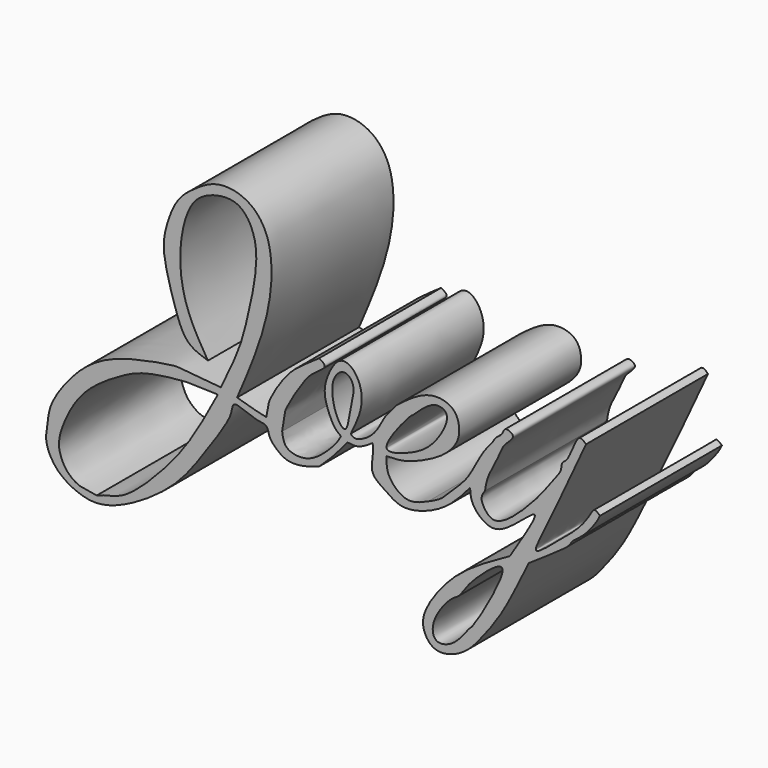
from build123d import *

# Parameters (mm, degrees)
F1_DEPTH = 25.4


with BuildPart() as f1:
    # F0 (on Front) → F1 (new body)
    with BuildSketch(Plane.XZ):
        with BuildLine():
            add(Edge.make_bspline(
                [(-17.9615113884, 22.5785691291), (-16.8785323099, 24.8283530558), (-14.8875163416, 28.9644954911), (-13.6529785181, 33.6098762388), (-11.8527273233, 41.5510196504), (-12.1077557838, 46.9327315687), (-14.9854313367, 51.3142979329), (-20.5866470233, 50.2918927929), (-23.5282370605, 47.4825058309), (-25.1627910693, 40.5038601474), (-24.1811394128, 32.5204253814), (-21.4672711456, 28.0255682144), (-20.120959729, 25.7957335562)],
                knots=[0, 0, 0, 0, 0.1079526526, 0.1984668582, 0.3137135116, 0.4090111108, 0.4944424419, 0.584479265, 0.6644981268, 0.7709558356, 0.8863744504, 1, 1, 1, 1], degree=3))
            add(Edge.make_bspline(
                [(-17.9615113884, 22.5785691291), (-20.7979269335, 22.8364178702), (-24.8208207618, 23.2021252543), (-25.9209646683, 23.2950329977), (-34.3716638699, 21.8353807402), (-39.4277787412, 19.3130619937), (-42.9937640583, 16.0388345285), (-46.7346829888, 10.8992924606), (-46.76549209, 7.4704291376), (-47.3811038047, 5.4098079055), (-45.718251537, 1.4211520754), (-41.6082922731, -0.862408187), (-37.8773460761, -1.4191528922), (-32.2369111303, 0.7337542847), (-24.6838615717, 6.1029919131), (-20.3138712178, 12.791475342), (-15.9279482721, 18.8630046719), (-16.1473717027, 21.6284869116), (-12.164200646, 19.4819936691), (-10.1802501736, 19.7599291983), (-9.9398563526, 17.8056032059), (-8.9988829421, 16.8025889347), (-7.1625813707, 15.1979889972), (-4.1175833659, 15.4080866641), (-2.4154447168, 16.0079938742), (-1.5792717459, 16.3026973605)],
                knots=[0, 0, 0, 0, 0.0571604273, 0.0810707482, 0.1431673574, 0.196825202, 0.2446514939, 0.2990998209, 0.3383517354, 0.3693361924, 0.412823318, 0.4595247079, 0.5007261801, 0.5533370351, 0.6194803707, 0.6832451063, 0.7422240262, 0.769720546, 0.8114430366, 0.8409824467, 0.8679412058, 0.8937555208, 0.9266971889, 0.9639901078, 1, 1, 1, 1], degree=3))
            add(Edge.make_bspline(
                [(-1.5792717459, 16.3026973605), (-0.913846574, 16.9199791597), (0.5470685948, 18.27519742), (2.2100052378, 20.2780144639), (3.1154989265, 21.3685780764)],
                knots=[0, 0, 0, 0, 0.4554851549, 1, 1, 1, 1], degree=3))
            add(Edge.make_bspline(
                [(3.1154989265, 21.3685780764), (3.7126878421, 21.2900057557), (5.0386948811, 21.1155426208), (6.5203878624, 22.1032210069), (7.3347762227, 22.6460823091)],
                knots=[0, 0, 0, 0, 0.4503663238, 1, 1, 1, 1], degree=3))
            add(Edge.make_bspline(
                [(7.3347762227, 22.6460823091), (7.3692013264, 22.0581225743), (7.4433401868, 20.7918761437), (6.8021223453, 18.0116565123), (8.5901209411, 16.8884442041), (9.5225488767, 16.3026973605)],
                knots=[0, 0, 0, 0, 0.2931788002, 0.6313980147, 1, 1, 1, 1], degree=3))
            add(Edge.make_bspline(
                [(9.5225488767, 16.3026973605), (10.3153046395, 15.7371406791), (12.0399771232, 14.5067490602), (16.2552353734, 15.3481781614), (20.3503110078, 17.6181086577), (22.4807026533, 20.1087717478), (23.5582794994, 21.3685780764)],
                knots=[0, 0, 0, 0, 0.2104982629, 0.4579475532, 0.7258235746, 1, 1, 1, 1], degree=3))
            add(Edge.make_bspline(
                [(23.5582794994, 21.3685780764), (23.6058177675, 20.5991928089), (23.7087464097, 18.933339505), (26.4224053914, 16.3935568171), (29.5683212268, 16.7653476082), (36.7499440399, 23.8975693388), (32.5084123063, 17.1728111255), (30.1864612848, 13.4914619848)],
                knots=[0, 0, 0, 0, 0.1468627944, 0.3179835665, 0.4909649516, 0.7213378268, 1, 1, 1, 1], degree=3))
            add(Edge.make_bspline(
                [(30.1864612848, 13.4914619848), (28.2281859881, 12.4047762183), (24.359431753, 10.2579278315), (19.5652417481, 6.5240716361), (15.6089189819, 0.8547997697), (15.6317840285, -2.1809546248), (17.6542722226, -4.9971944849), (22.6899250217, -3.6130583964), (26.1417500487, 0.8207725876), (29.1458373537, 4.8903464517), (31.7982731886, 10.3330236723), (33.3375073969, 13.4914619848)],
                knots=[0, 0, 0, 0, 0.123517731, 0.2440207185, 0.3675980917, 0.4479315713, 0.5278251165, 0.6295956243, 0.7425420272, 0.8505946445, 1, 1, 1, 1], degree=3))
            add(Edge.make_bspline(
                [(33.3375073969, 13.4914619848), (33.919882448, 13.8983363923), (35.3532959578, 14.8997860105), (40.1509053178, 17.9925096677), (40.4952008459, 19.1543329618), (42.411659326, 20.2393501731), (44.643818166, 23.1101767007), (45.0424248374, 23.9615966109), (45.1886281371, 24.273885414)],
                knots=[0, 0, 0, 0, 0.1695940509, 0.4174258553, 0.5287737429, 0.6806679251, 0.8828735031, 1, 1, 1, 1], degree=3))
            add(Edge.make_bspline(
                [(45.1886281371, 24.273885414), (44.8667141174, 24.5705585525), (44.2128239262, 25.1731780203), (43.5281596898, 23.7695626009), (41.8783132813, 21.4331294474), (39.0362061175, 19.0192899036), (36.8442594881, 17.1707807643), (33.7825829746, 14.7842334012), (35.7431769648, 18.8333263193), (37.8784541149, 23.3263467912), (40.6525082758, 29.0825463573), (42.1511863372, 32.4159856595), (42.8699366748, 34.0146683156)],
                knots=[0, 0, 0, 0, 0.0573073121, 0.1164058941, 0.2123824054, 0.3197124954, 0.4215666562, 0.5060014251, 0.5975336027, 0.7298339801, 0.8704312, 1, 1, 1, 1], degree=3))
            add(Edge.make_bspline(
                [(42.8699366748, 34.0146683156), (42.4842507703, 34.3852339771), (41.3945076189, 35.4322553667), (40.0503084723, 30.5060562056), (38.7294343375, 30.1817479967), (38.8723117283, 28.8003334771), (37.49050637, 27.1613363836), (35.4048057224, 24.156523269), (32.3977584702, 20.9257830442), (29.6956531395, 18.5505783498), (27.6140273069, 17.6699740484), (26.320672442, 18.4246453451), (25.1056777253, 20.3847945843), (25.74962933, 21.3012230998), (26.0449219495, 21.7214636505)],
                knots=[0, 0, 0, 0, 0.0626644564, 0.1770564113, 0.2376931564, 0.2952624947, 0.3749868594, 0.4826995825, 0.6017764862, 0.708508773, 0.7873725434, 0.8522990153, 0.9322697383, 1, 1, 1, 1], degree=3))
            add(Edge.make_bspline(
                [(26.0449219495, 21.7214636505), (26.1425852473, 22.4169885406), (26.3680266324, 24.0225056395), (28.4388006732, 27.5083658913), (28.9784218835, 29.5501804958), (31.5122788762, 31.3045527146), (29.2099715415, 32.253896275), (29.076131931, 30.8840676682), (27.7486559039, 30.1861003851), (27.3404558893, 29.1778310104), (25.8720822351, 27.7557388798), (24.039505795, 24.1797379314), (22.8242378267, 22.1354568252), (20.1835384633, 19.5878385054), (18.7132589762, 18.0381921144), (17.2865095097, 17.4055756925), (16.564566642, 17.0854683965)],
                knots=[0, 0, 0, 0, 0.0731828751, 0.1689319232, 0.2429593353, 0.3138247707, 0.3694356849, 0.417966367, 0.4750967202, 0.5236274783, 0.591893268, 0.6880781609, 0.7651496715, 0.8559018409, 0.9270855601, 1, 1, 1, 1], degree=3))
            add(Edge.make_bspline(
                [(16.564566642, 17.0854683965), (15.5376654268, 16.6296479273), (13.6155459322, 15.7764583536), (11.2818730663, 16.924283769), (9.6829369568, 18.9773088269), (9.6530240372, 20.3063111364), (9.6391001716, 20.9249351174)],
                knots=[0, 0, 0, 0, 0.282514507, 0.5288012454, 0.7806664087, 1, 1, 1, 1], degree=3))
            add(Edge.make_bspline(
                [(9.6391001716, 20.9249351174), (9.6391001716, 21.1052093655), (9.6391001716, 21.2854836136), (9.6391001716, 21.4657578617)],
                knots=[0, 0, 0, 0, 0.5408227444, 0.5408227444, 0.5408227444, 0.5408227444], degree=3))
            add(Edge.make_bspline(
                [(9.6391001716, 21.4657578617), (10.5359531136, 21.4861171349), (12.4703218875, 21.5300288405), (15.9510649868, 22.8584090971), (19.4511917819, 24.7557357004), (21.6322912153, 27.3556819218), (21.8468844524, 29.5597324347), (21.3013684695, 31.670247251), (19.4456043314, 32.8848598254), (16.6597590276, 32.9713853818), (13.627155122, 31.3202477418), (12.022776185, 30.0447565701), (11.2415142357, 29.4236484915)],
                knots=[0, 0, 0, 0, 0.0982557093, 0.211921896, 0.3311054994, 0.4371906532, 0.5229818094, 0.6071128695, 0.69117434, 0.787518099, 0.8965306635, 1, 1, 1, 1], degree=3))
            add(Edge.make_bspline(
                [(3.6884874571, 22.8364178702), (3.8260509458, 22.6460823091), (4.1819227529, 22.1536910453), (6.0924863334, 22.7756038036), (8.0433054885, 24.4520959728), (9.2262164492, 27.073412596), (10.0950012651, 27.9970676048), (10.8374365424, 28.9208635001), (11.2415142357, 29.4236484915)],
                knots=[0, 0, 0, 0, 0.1044396849, 0.2701817156, 0.4779433435, 0.688276035, 0.8303411696, 1, 1, 1, 1], degree=3))
            add(Edge.make_bspline(
                [(2.0216123667, 21.922711283), (1.6803407427, 22.1852704936), (0.9022033013, 22.7839348362), (-0.0723790262, 24.8178512902), (-0.9322418237, 27.4498084972), (-0.1953739443, 30.3844044334), (1.5954159584, 33.3482101095), (3.8931117555, 32.9505646192), (5.5819376938, 30.2403932967), (5.5715871308, 26.7462498904), (4.3417277384, 24.1927240734), (3.6884874571, 22.8364178702)],
                knots=[0, 0, 0, 0, 0.0785044144, 0.1789988381, 0.2903542691, 0.4088455106, 0.5282829848, 0.6186780205, 0.7345166106, 0.8589883973, 1, 1, 1, 1], degree=3))
            add(Edge.make_bspline(
                [(-7.7553768642, 19.4355808198), (-7.639808734, 18.6625415622), (-7.4024463068, 17.0748160014), (-4.5795532844, 16.3943213863), (-1.7351209952, 17.3942899151), (1.4140422522, 20.6504210654), (1.8626609248, 21.5898569181), (2.0216123667, 21.922711283)],
                knots=[0, 0, 0, 0, 0.183063038, 0.375988492, 0.5949263152, 0.8564771148, 1, 1, 1, 1], degree=3))
            add(Edge.make_bspline(
                [(-1.5792717459, 32.1820117533), (-1.1073314346, 31.9016260697), (0.0035234063, 31.241653216), (-2.8743933946, 29.7416359859), (-4.936857203, 26.8816404875), (-7.2075491315, 23.0308733774), (-7.3534113486, 21.9908582278), (-7.6031740275, 20.4031276742), (-7.7553768642, 19.4355808198)],
                knots=[0, 0, 0, 0, 0.1205679315, 0.2837932409, 0.4989070485, 0.719124548, 0.8288373556, 1, 1, 1, 1], degree=3))
            add(Edge.make_bspline(
                [(-10.3949774057, 20.6729285419), (-10.2631654288, 21.2868097571), (-10.0273044895, 22.3852729127), (-9.9844001075, 23.4407001899), (-7.1069358283, 28.2203658873), (-4.3045447927, 30.2938343567), (-2.4635990748, 31.5693146602), (-1.5792717459, 32.1820117533)],
                knots=[0, 0, 0, 0, 0.1558180898, 0.2788168564, 0.5539565497, 0.7857359893, 1, 1, 1, 1], degree=3))
            add(Edge.make_bspline(
                [(-15.2589939535, 21.965092048), (-13.8751820485, 21.5616721851), (-11.7033011179, 20.9285081661), (-10.7433107925, 20.7409750928), (-10.3949774057, 20.6729285419)],
                knots=[0, 0, 0, 0, 0.6371490653, 1, 1, 1, 1], degree=3))
            add(Edge.make_bspline(
                [(-20.120959729, 25.7957335562), (-21.3065923176, 26.1876692196), (-23.8767453989, 27.0372871052), (-25.6611507886, 31.8628096162), (-27.6231270893, 38.6157528723), (-27.4496991171, 42.4792366219), (-25.5450805527, 47.7362068103), (-22.8553794467, 49.9801215078), (-18.619761244, 52.8534052409), (-13.0302223885, 51.8029826503), (-9.1162938409, 46.6940973301), (-9.5679953728, 35.2954373224), (-13.2625845711, 26.6413937549), (-15.2589939535, 21.965092048)],
                knots=[0, 0, 0, 0, 0.0707544887, 0.1533779258, 0.2517433049, 0.3258992361, 0.4108633315, 0.4808148467, 0.5623330238, 0.6461600888, 0.7347964294, 0.8566945151, 1, 1, 1, 1], degree=3))
        make_face()
        with BuildLine():
            add(Edge.make_bspline(
                [(-38.6411510408, 0), (-38.9324876456, 0.0603362565), (-39.6384547018, 0.2065431138), (-41.6532337358, 0.3053483989), (-43.55206713, 1.76313346), (-44.3780643708, 3.1124135679), (-45.0988961277, 5.0429811662), (-44.7126077147, 7.6115437807), (-43.004083166, 11.5021395115), (-40.156234634, 15.4379291876), (-34.5023929154, 19.0458542908), (-30.2014221237, 20.9879850956), (-23.6881710682, 21.5217120797), (-23.0322361037, 21.481037326), (-20.3667437799, 21.4154164734), (-18.4641871601, 21.3685780764)],
                knots=[0, 0, 0, 0, 0.0436100195, 0.1056758285, 0.1727731906, 0.2281936308, 0.2893923257, 0.3593357338, 0.4492651009, 0.5472486615, 0.6591176173, 0.7607836682, 0.8684271589, 0.9060868502, 1, 1, 1, 1], degree=3))
            add(Edge.make_bspline(
                [(-18.4641871601, 21.3685780764), (-20.0992394632, 18.2888979576), (-23.2343911337, 12.3837264528), (-28.6613921622, 6.0272411701), (-33.9568779145, 1.0896073647), (-37.166203609, 0.570056347), (-38.2106088696, 0.1664013863), (-38.6411510408, 0)],
                knots=[0, 0, 0, 0, 0.272417931, 0.5223511994, 0.7481872587, 0.8961935482, 1, 1, 1, 1], degree=3))
        make_face(mode=Mode.SUBTRACT)
        with BuildLine():
            add(Edge.make_bspline(
                [(28.9098639041, 11.2962890416), (29.486755122, 10.2762166008), (24.04558038, 0.8583487786), (23.4253316444, 0.8706037134), (21.1839086766, -2.6131430765), (17.8678350042, -3.4814232859), (17.0408557866, -1.3203209578), (18.0955561044, 1.483561453), (20.4221744993, 4.2438946586), (21.9254041622, 4.8262412523), (22.8976217154, 7.162413589), (28.4591972785, 12.0931682288), (28.9098639041, 11.2962890416)],
                knots=[0, 0, 0, 0, 0.1802013615, 0.2370605265, 0.3423912286, 0.4348553799, 0.5046069633, 0.599172447, 0.7016633758, 0.7646678764, 0.8592269443, 1, 1, 1, 1], degree=3))
        make_face(mode=Mode.SUBTRACT)
        with BuildLine():
            add(Edge.make_bspline(
                [(2.750870306, 23.1964681298), (3.225421489, 23.4725752353), (3.602779696, 26.9471783398), (4.5002284518, 29.6979332087), (3.305305357, 31.5228860815), (1.8785416967, 31.4838357336), (0.475012431, 29.7830548766), (0.5932578932, 26.5396896683), (1.583804871, 23.8316501763), (2.4949488265, 23.0475658796), (2.750870306, 23.1964681298)],
                knots=[0, 0, 0, 0, 0.1576349877, 0.3065501039, 0.4162744462, 0.5053243882, 0.6209961434, 0.7704979569, 0.914988771, 1, 1, 1, 1], degree=3))
        make_face(mode=Mode.SUBTRACT)
        with BuildLine():
            add(Edge.make_bspline(
                [(9.6391001716, 22.7111708373), (9.4699575019, 23.838508143), (13.6644870098, 28.8751888807), (13.9693903825, 28.7379100406), (17.2484707094, 32.2251031848), (19.8272336926, 31.3077270318), (19.7235337786, 29.198923837), (17.1653371573, 25.036114472), (13.3815606337, 22.9846472878), (9.7510987708, 21.9646992389), (9.6391001716, 22.7111708373)],
                knots=[0, 0, 0, 0, 0.1838290523, 0.2404966789, 0.383365291, 0.4832804163, 0.5730705479, 0.7224009059, 0.8782767449, 1, 1, 1, 1], degree=3))
        make_face(mode=Mode.SUBTRACT)
    extrude(amount=F1_DEPTH)


solid = f1.part
